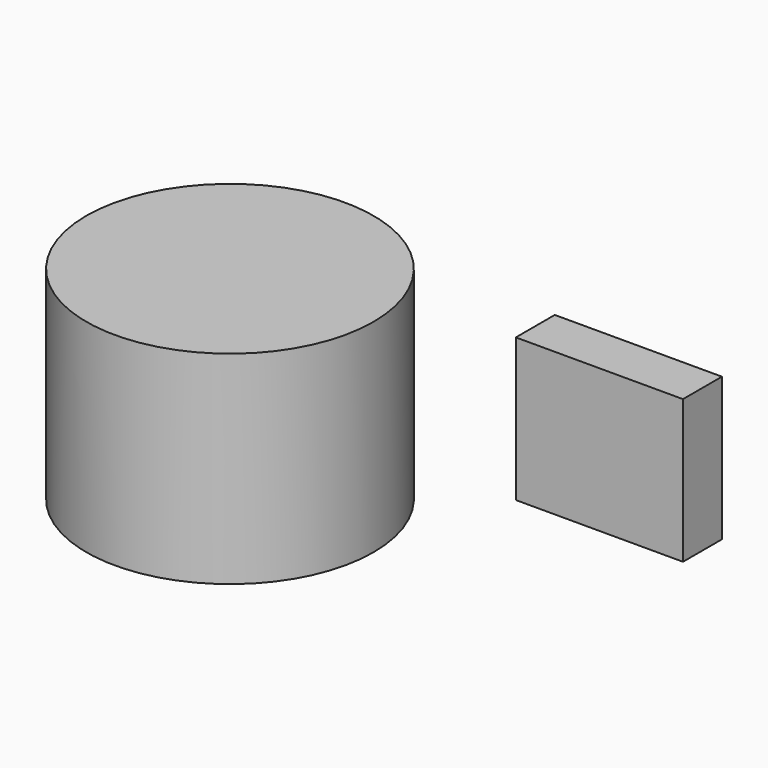
from build123d import *

# Parameters (mm, degrees)
F0_R     = 76.416021
F1_DEPTH = 107.95
F2_W     = 88.937927
F2_H     = 25.900159
F3_DEPTH = 76.2


with BuildPart() as f1:
    # F0 (on Top) → F1 (new body)
    with BuildSketch(Plane.XY):
        with Locations((-46.328697, -38.919758)):
            Circle(F0_R)
    extrude(amount=F1_DEPTH)


with BuildPart() as f3:
    # F2 (on Top) → F3 (new body)
    with BuildSketch(Plane.XY):
        with Locations((91.369902, 47.6526)):
            Rectangle(F2_W, F2_H)
    extrude(amount=F3_DEPTH)


solid = Compound([f1.part, f3.part])
